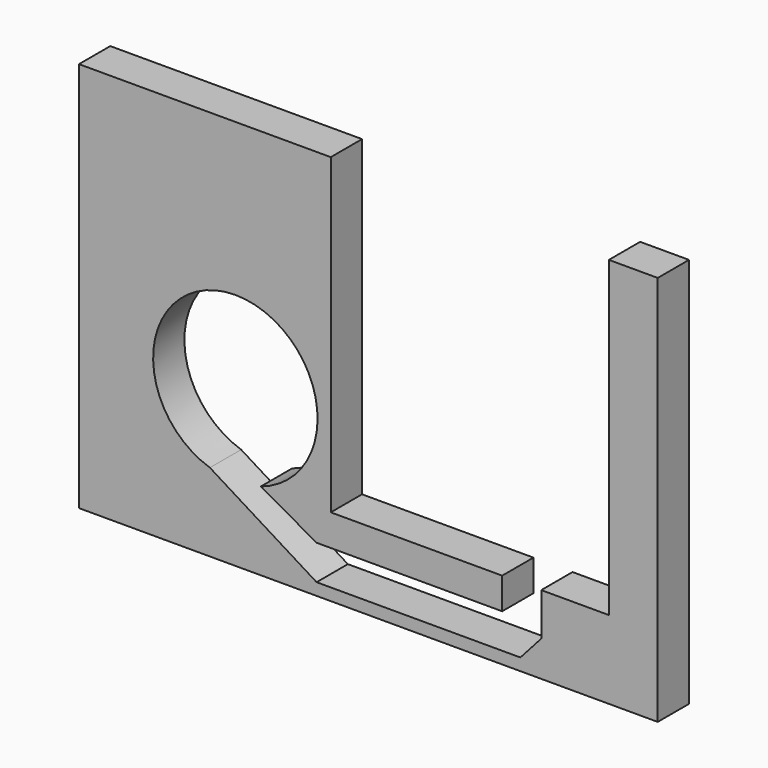
from build123d import *

# Parameters (mm, degrees)
F1_DEPTH = 12.7


with BuildPart() as f1:
    # F0 (on Front) → F1 (new body)
    with BuildSketch(Plane.XZ):
        with BuildLine():
            Line((-9.130059, 101.6), (-90.936985, 101.6))
            Line((-90.936985, 101.6), (-90.936985, -25.4))
            Line((-90.936985, -25.4), (97.104346, -25.4))
            Line((97.104346, -25.4), (97.104346, 101.6))
            Line((97.104346, 101.6), (81.229346, 101.6))
            Line((81.229346, 101.6), (81.229346, 0))
            Line((81.229346, 0), (59.258346, 0))
            Line((59.258346, 0), (59.258346, -13.884136))
            Line((59.258346, -13.884136), (52.471939, -21.478448))
            Line((52.471939, -21.478448), (-13.737017, -21.478448))
            Line((-13.737017, -21.478448), (-48.406098, 0))
            ThreePointArc((-48.406098, 0), (-40.136985, 52.112136), (-31.867873, 0))
            Line((-31.867873, 0), (-13.737017, -10.196643))
            Line((-13.737017, -10.196643), (46.558346, -10.196643))
            Line((46.558346, -10.196643), (46.558346, 0))
            Line((46.558346, 0), (-9.130059, 0))
            Line((-9.130059, 0), (-9.130059, 101.6))
        make_face()
    extrude(amount=F1_DEPTH)


solid = f1.part
